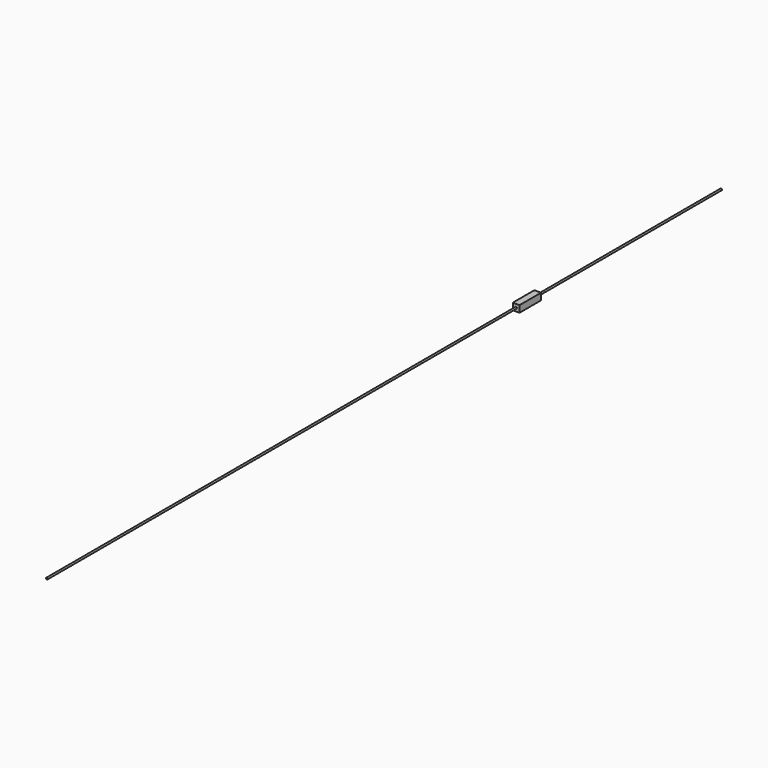
from build123d import *

# Parameters (mm, degrees)
F0_R          = 3.175
F1_DEPTH      = 3175
F3_W          = 25.4
F3_H          = 25.4
F4_DEPTH      = 50.8
F4_DEPTH_BACK = 50.8


with BuildPart() as f1:
    # F0 (on Front) → F1 (new body)
    with BuildSketch(Plane.XZ):
        Circle(F0_R)
    extrude(amount=F1_DEPTH)

    # F3 (on offset) → F4 (join, two sides)
    with BuildSketch(Plane.XZ.offset(914.4)) as f4_sk:
        Rectangle(F3_W, F3_H)
    extrude(amount=F4_DEPTH)
    extrude(f4_sk.sketch, amount=-F4_DEPTH_BACK)


solid = f1.part
